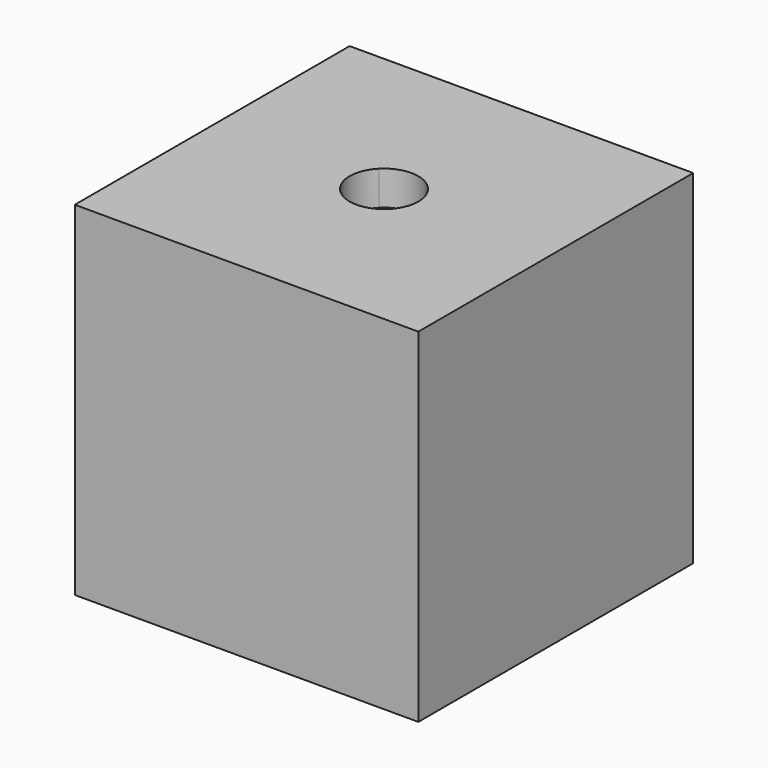
from build123d import *

# Parameters (mm, degrees)
F0_W     = 25.4
F0_H     = 25.4
F1_DEPTH = 25.4
F3_DEPTH = 2.54


with BuildPart() as f1:
    # F0 (on Top) → F1 (new body)
    with BuildSketch(Plane.XY):
        with Locations((12.7, -14.1705394119)):
            Rectangle(F0_W, F0_H)
    extrude(amount=F1_DEPTH)

    # F2 (on face) → F3 (cut)
    with BuildSketch(Plane.XY.offset(25.4)):
        with BuildLine():
            Line((14.4960512242, -15.9665906361), (12.7, -14.1705394119))
            Line((12.7, -14.1705394119), (10.9039487758, -15.9665906361))
            ThreePointArc((10.9039487758, -15.9665906361), (12.7, -16.7105394119), (14.4960512242, -15.9665906361))
        make_face()
        with BuildLine():
            Line((14.4960512242, -12.3744881877), (12.7, -14.1705394119))
            Line((12.7, -14.1705394119), (14.4960512242, -15.9665906361))
            ThreePointArc((14.4960512242, -15.9665906361), (15.0466540126, -15.1425553301), (15.24, -14.1705394119))
            ThreePointArc((15.24, -14.1705394119), (15.0466540126, -13.1985234937), (14.4960512242, -12.3744881877))
        make_face()
        with BuildLine():
            ThreePointArc((14.4960512242, -12.3744881877), (12.7, -11.6305394119), (10.9039487758, -12.3744881877))
            Line((10.9039487758, -12.3744881877), (12.7, -14.1705394119))
            Line((12.7, -14.1705394119), (14.4960512242, -12.3744881877))
        make_face()
        with BuildLine():
            Line((12.7, -14.1705394119), (10.9039487758, -12.3744881877))
            ThreePointArc((10.9039487758, -12.3744881877), (10.16, -14.1705394119), (10.9039487758, -15.9665906361))
            Line((10.9039487758, -15.9665906361), (12.7, -14.1705394119))
        make_face()
    extrude(amount=-F3_DEPTH, mode=Mode.SUBTRACT)


solid = f1.part
